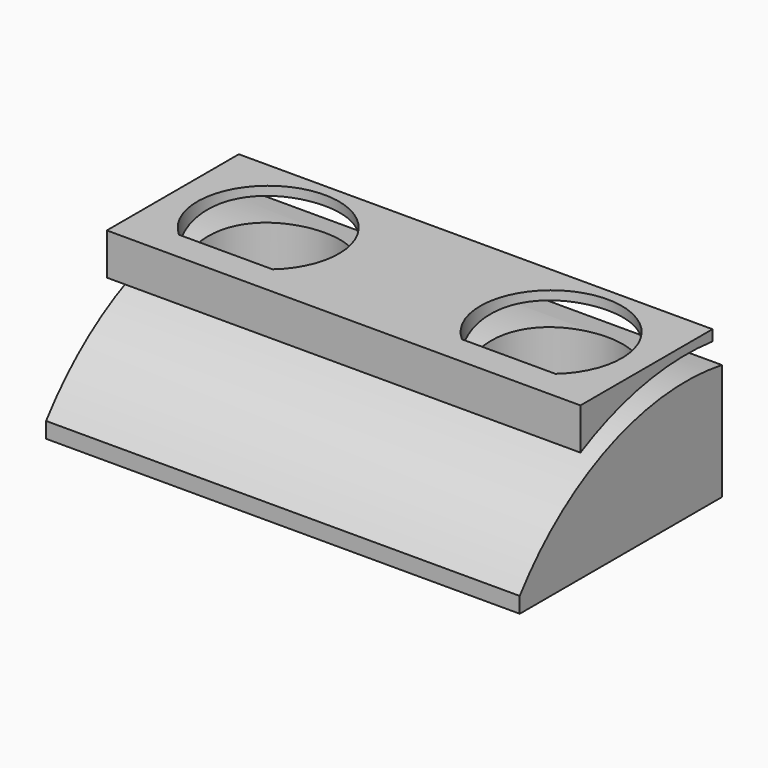
from build123d import *

# Parameters (mm, degrees)
F4_DEPTH      = 15.9483520034
F4_DEPTH_BACK = 15.9483520034
F5_DEPTH      = 6.3809299883
F5_DEPTH_BACK = 3.8965306216


with BuildPart() as f4:
    # F2 (on Right) → F4 (new body, two sides)
    with BuildSketch(Plane.YZ) as f4_sk:
        with BuildLine():
            Line((-14.0061716288, -6.3799299883), (3.0117175353, -6.3799299883))
            Line((3.0117175353, -6.3799299883), (3.0117175353, 1.4503391406))
            ThreePointArc((3.0117175353, 1.4503391406), (-6.456282884, 0.474656335), (-14.0061716288, -5.3213913543))
            Line((-14.0061716288, -5.3213913543), (-14.0061716288, -6.3799299883))
        make_face()
    extrude(amount=F4_DEPTH)
    extrude(f4_sk.sketch, amount=-F4_DEPTH_BACK)


with BuildPart() as f4b:
    # F2 (on Right) → F4, piece 2 (new body, two sides)
    with BuildSketch(Plane.YZ) as f4_2_sk:
        with BuildLine():
            Line((-8.8945324647, 3.8955306216), (-8.8945324647, 1.0955733502))
            ThreePointArc((-8.8945324647, 1.0955733502), (-3.4956963756, 2.9760332092), (2.2179675353, 3.1699535819))
            Line((2.2179675353, 3.1699535819), (2.2179675353, 3.8955306216))
            Line((2.2179675353, 3.8955306216), (-8.8945324647, 3.8955306216))
        make_face()
    extrude(amount=F4_DEPTH)
    extrude(f4_2_sk.sketch, amount=-F4_DEPTH_BACK)


with BuildPart() as f5_tool:
    # F3 (on Top) → F5 (new body, two sides)
    with BuildSketch(Plane.XY) as f5_sk:
        with BuildLine():
            ThreePointArc((-6.3749023453, -6.9101574647), (-9.525, 1.4242175353), (-12.6750976547, -6.9101574647))
            Line((-12.6750976547, -6.9101574647), (-6.3749023453, -6.9101574647))
        make_face()
        with BuildLine():
            Line((6.3749023453, -6.9101574647), (12.6750976547, -6.9101574647))
            ThreePointArc((12.6750976547, -6.9101574647), (9.525, 1.4242175353), (6.3749023453, -6.9101574647))
        make_face()
    extrude(amount=-F5_DEPTH)
    extrude(f5_sk.sketch, amount=F5_DEPTH_BACK)


with BuildPart() as f4_1:
    add(f4.part)

    # F5: cut by f5_tool
    add(f5_tool.part, mode=Mode.SUBTRACT)


with BuildPart() as f4b_1:
    add(f4b.part)

    # F5: cut by f5_tool
    add(f5_tool.part, mode=Mode.SUBTRACT)


solid = Compound([f4_1.part, f4b_1.part])
